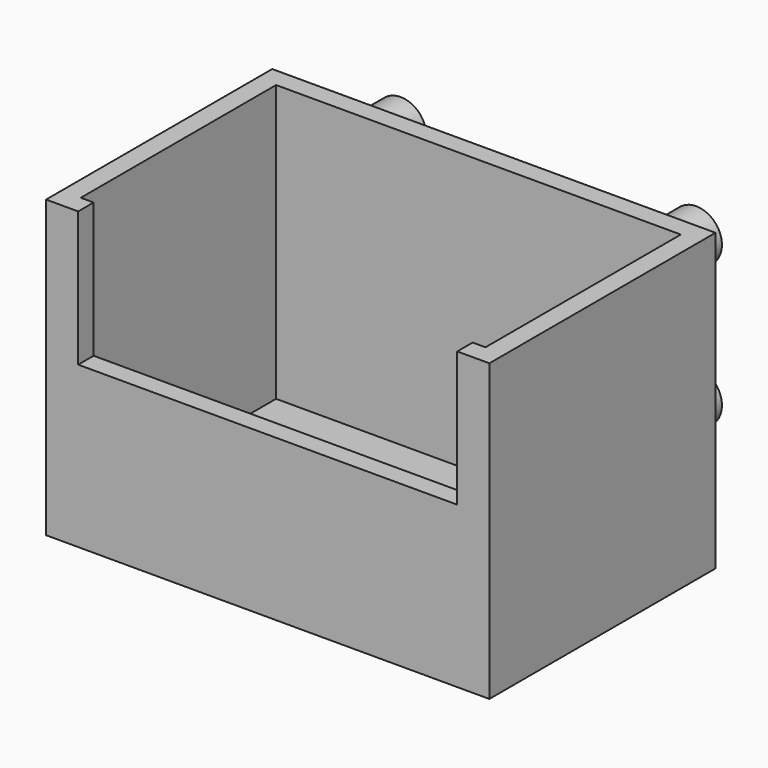
from build123d import *

# Parameters (mm, degrees)
CYLINDER_R             = 4
CYLINDER_DEPTH         = 10
CYLINDER_ROLL_ANGLE    = 90
CYLINDER001_R          = 4
CYLINDER001_DEPTH      = 10
CYLINDER001_ROLL_ANGLE = 90
CYLINDER002_R          = 4
CYLINDER002_DEPTH      = 10
CYLINDER002_ROLL_ANGLE = 90
CYLINDER003_R          = 4
CYLINDER003_DEPTH      = 10
CYLINDER003_ROLL_ANGLE = 90
SKETCH_W               = 59
SKETCH_H               = 21.274194
PAD_DEPTH              = 3
BOX_W                  = 63
BOX_H                  = 38
BOX_DEPTH              = 44
BOX001_W               = 69
BOX001_H               = 44
BOX001_DEPTH           = 46


with BuildPart() as pin1:
    # Cylinder → Cylinder (new body)
    with BuildSketch(Plane.XY):
        Circle(CYLINDER_R)
    extrude(amount=CYLINDER_DEPTH)


with BuildPart() as pin1_1:
    # Cylinder roll: moved
    add(pin1.part.rotate(Axis((0, 0, 0), (1, 0, 0)), CYLINDER_ROLL_ANGLE))


with BuildPart() as pin1_2:
    # Cylinder placement: moved
    add(pin1_1.part)


with BuildPart() as pin2:
    # Cylinder001 → Cylinder001 (new body)
    with BuildSketch(Plane.XY):
        Circle(CYLINDER001_R)
    extrude(amount=CYLINDER001_DEPTH)


with BuildPart() as pin2_1:
    # Cylinder001 roll: moved
    add(pin2.part.rotate(Axis((0, 0, 0), (1, 0, 0)), CYLINDER001_ROLL_ANGLE))


with BuildPart() as pin2_2:
    # Cylinder001 placement: moved
    add(pin2_1.part.moved(Location((46, 0, 0))))


with BuildPart() as pin3:
    # Cylinder002 → Cylinder002 (new body)
    with BuildSketch(Plane.XY):
        Circle(CYLINDER002_R)
    extrude(amount=CYLINDER002_DEPTH)


with BuildPart() as pin3_1:
    # Cylinder002 roll: moved
    add(pin3.part.rotate(Axis((0, 0, 0), (1, 0, 0)), CYLINDER002_ROLL_ANGLE))


with BuildPart() as pin3_2:
    # Cylinder002 placement: moved
    add(pin3_1.part.moved(Location((0, 0, 22))))


with BuildPart() as pin4:
    # Cylinder003 → Cylinder003 (new body)
    with BuildSketch(Plane.XY):
        Circle(CYLINDER003_R)
    extrude(amount=CYLINDER003_DEPTH)


with BuildPart() as pin4_1:
    # Cylinder003 roll: moved
    add(pin4.part.rotate(Axis((0, 0, 0), (1, 0, 0)), CYLINDER003_ROLL_ANGLE))


with BuildPart() as pin4_2:
    # Cylinder003 placement: moved
    add(pin4_1.part.moved(Location((46, 0, 22))))


with BuildPart() as pad:
    # Sketch → Pad (new body)
    with BuildSketch(Plane(origin=(-12, -54, -16), x_dir=(1, 0, 0), z_dir=(0, -1, 0))):
        with Locations((34.5, 35.637097)):
            Rectangle(SKETCH_W, SKETCH_H)
    extrude(amount=-PAD_DEPTH)


with BuildPart() as inside:
    # Box → Box (new body)
    with BuildSketch(Plane(origin=(-9, -51, -13), x_dir=(1, 0, 0), z_dir=(0, 0, 1))):
        with Locations((31.5, 19)):
            Rectangle(BOX_W, BOX_H)
    extrude(amount=BOX_DEPTH)


with BuildPart() as cut001:
    # Box001 → Box001 (new body)
    with BuildSketch(Plane(origin=(-12, -54, -16), x_dir=(1, 0, 0), z_dir=(0, 0, 1))):
        with Locations((34.5, 22)):
            Rectangle(BOX001_W, BOX001_H)
    extrude(amount=BOX001_DEPTH)

    # Cut: cut inside
    add(inside.part, mode=Mode.SUBTRACT)

    # Cut001: cut Pad
    add(pad.part, mode=Mode.SUBTRACT)


solid = Compound([pin1_2.part, pin2_2.part, pin3_2.part, pin4_2.part, cut001.part])
